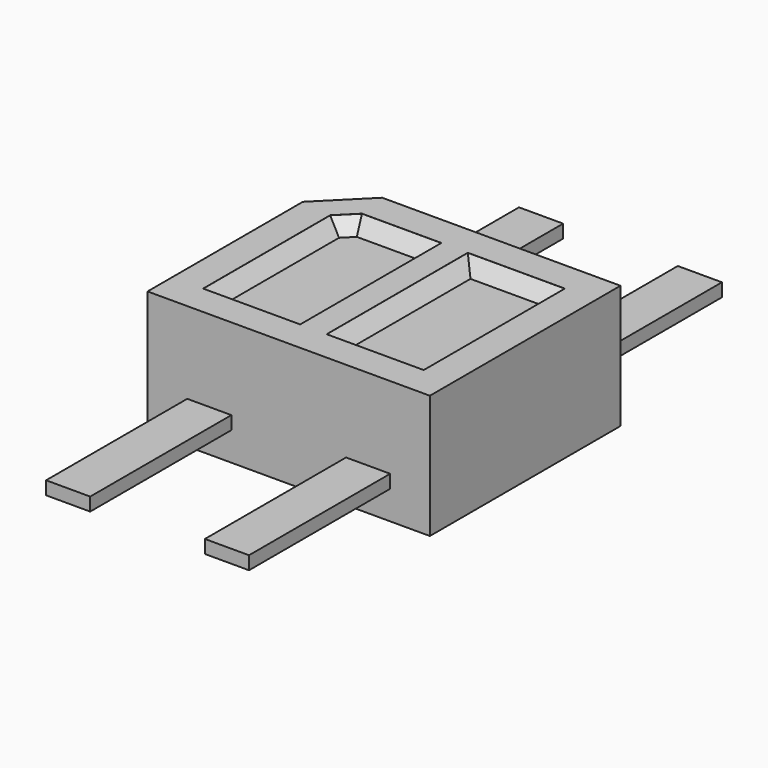
from build123d import *

# Parameters (mm, degrees)
SKETCH002_W    = 0.5
SKETCH002_H    = 6.7
PAD001_DEPTH   = 0.075
PAD_DEPTH      = 1
PAD_DEPTH_BACK = 0.4
SKETCH001_W    = 1.1
SKETCH001_H    = 2
POCKET_DEPTH   = 0.151
CHAMFER_SIZE   = 0.15


with BuildPart() as pad001:
    # Sketch002 → Pad001 (new body, symmetric)
    with BuildSketch(Plane.XY):
        with Locations((-0.9, 0)):
            Rectangle(SKETCH002_W, SKETCH002_H)
        with Locations((0.9, 0)):
            Rectangle(SKETCH002_W, SKETCH002_H)
    extrude(amount=PAD001_DEPTH, both=True)


with BuildPart() as obj1:
    # Sketch → Pad (new body, two sides)
    with BuildSketch(Plane.XY) as pad_sk:
        Polygon((-1.1, 1.35), (1.6, 1.35), (1.6, -1.35), (-1.6, -1.35), (-1.6, 0.85), align=None)
    extrude(amount=PAD_DEPTH)
    extrude(pad_sk.sketch, amount=-PAD_DEPTH_BACK)

    # Sketch001 → Pocket (cut)
    with BuildSketch(Plane.XY.offset(1)):
        Polygon((-1.25, -1), (-0.15, -1), (-0.15, 1), (-1.05, 1), (-1.25, 0.8), align=None)
        with Locations((0.7, 0)):
            Rectangle(SKETCH001_W, SKETCH001_H)
    extrude(amount=-POCKET_DEPTH, mode=Mode.SUBTRACT)

    # Chamfer
    chamfer_edges = [obj1.edges().sort_by_distance(p)[0] for p in [
        (-1.15, 0.9, 0.849),
        (-0.6, 1, 0.849),
        (-1.25, -0.1, 0.849),
        (0.15, 0, 0.849),
        (0.7, 1, 0.849),
        (1.25, 0, 0.849),
        (-0.15, 0, 0.849),
        (0.7, -1, 0.849),
        (-0.7, -1, 0.849),
    ]]
    chamfer(chamfer_edges, length=CHAMFER_SIZE)

    add(pad001.part)


solid = obj1.part
